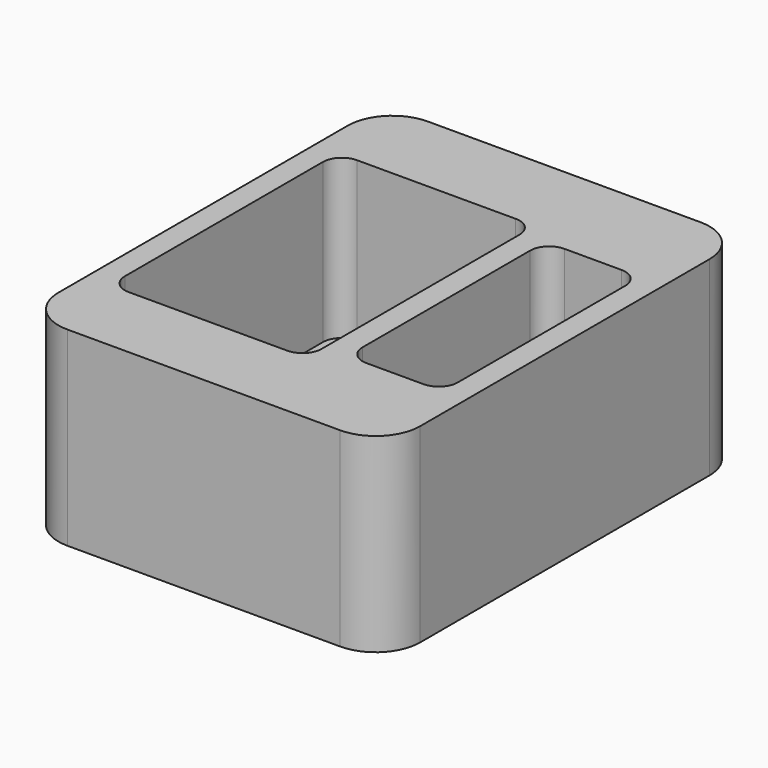
from build123d import *

# Parameters (mm, degrees)
F0_W     = 57
F0_H     = 71
F1_DEPTH = 30
F2_W     = 31
F2_H     = 45
F2_W_2   = 15
F2_H_2   = 39
F3_DEPTH = 25
F4_R     = 7
F5_R     = 3


with BuildPart() as f1:
    # F0 (on Top) → F1 (new body)
    with BuildSketch(Plane.XY):
        Rectangle(F0_W, F0_H)
    extrude(amount=F1_DEPTH)

    # F2 (on face) → F3 (cut)
    with BuildSketch(Plane.XY.offset(30)):
        with Locations((-9.34, -0.5)):
            Rectangle(F2_W, F2_H)
        with Locations((17.33, 0)):
            Rectangle(F2_W_2, F2_H_2)
    extrude(amount=-F3_DEPTH, mode=Mode.SUBTRACT)

    # F4
    f4_edges = [f1.edges().sort_by_distance(p)[0] for p in [
        (28.5, 35.5, 15),
        (28.5, -35.5, 15),
        (-28.5, -35.5, 15),
        (-28.5, 35.5, 15),
    ]]
    fillet(f4_edges, radius=F4_R)

    # F5
    f5_edges = [f1.edges().sort_by_distance(p)[0] for p in [
        (24.83, 19.5, 17.5),
        (24.83, -19.5, 17.5),
        (6.16, -23, 17.5),
        (6.16, 22, 17.5),
        (-24.84, 22, 17.5),
        (9.83, 19.5, 17.5),
        (-24.84, -23, 17.5),
        (9.83, -19.5, 17.5),
    ]]
    fillet(f5_edges, radius=F5_R)


solid = f1.part
